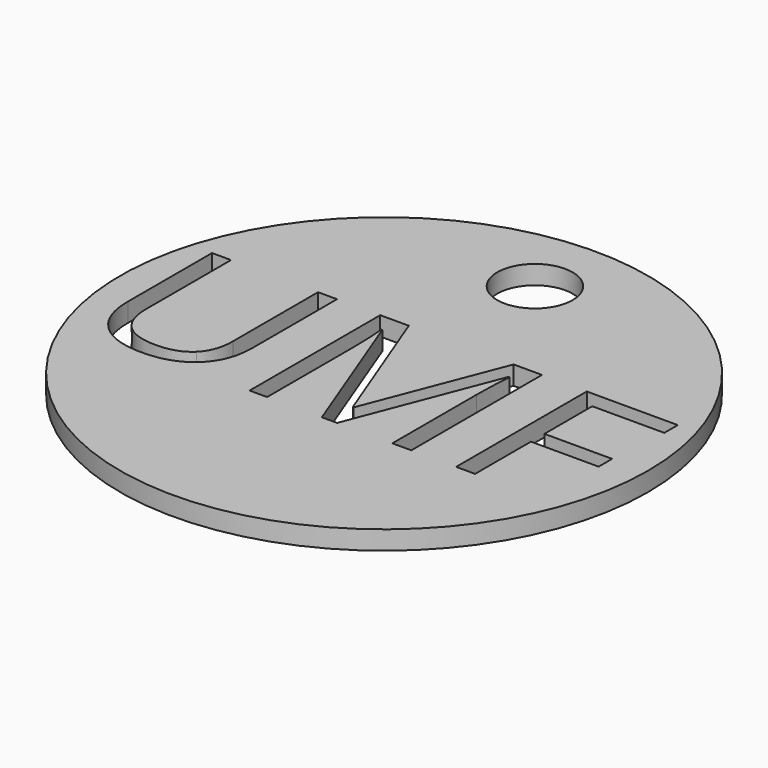
from build123d import *

# Parameters (mm, degrees)
F0_R     = 44.45
F0_R_2   = 6.35
F1_DEPTH = 3.175


with BuildPart() as f1:
    # F0 (on Top) → F1 (new body)
    with BuildSketch(Plane.XY):
        Circle(F0_R)
        with BuildLine():
            Line((-21.2053465663, 12.6017319805), (-18.0090443844, 12.6017319805))
            Line((-18.0090443844, 12.6017319805), (-18.0090443844, -5.1916187724))
            add(Edge.make_bspline(
                [(-18.0090443844, -5.1916187724), (-18.0090443844, -9.8987907239), (-20.8502018794, -12.5894631821)],
                knots=[0, 0, 0, 1, 1, 1], degree=2))
            add(Edge.make_bspline(
                [(-20.8502018794, -12.5894631821), (-23.6913593745, -15.2801356403), (-28.6573655893, -15.2801356403)],
                knots=[0, 0, 0, 1, 1, 1], degree=2))
            add(Edge.make_bspline(
                [(-28.6573655893, -15.2801356403), (-33.6233718042, -15.2801356403), (-36.341131569, -12.568395277)],
                knots=[0, 0, 0, 1, 1, 1], degree=2))
            add(Edge.make_bspline(
                [(-36.341131569, -12.568395277), (-39.0588913339, -9.8566549136), (-39.0588913339, -5.1193859547)],
                knots=[0, 0, 0, 1, 1, 1], degree=2))
            Line((-39.0588913339, -5.1193859547), (-39.0588913339, 12.6017319805))
            Line((-39.0588913339, 12.6017319805), (-35.8565697505, 12.6017319805))
            Line((-35.8565697505, 12.6017319805), (-35.8565697505, -5.3421038092))
            add(Edge.make_bspline(
                [(-35.8565697505, -5.3421038092), (-35.8565697505, -8.7852014515), (-33.9755067903, -10.6301480028)],
                knots=[0, 0, 0, 1, 1, 1], degree=2))
            add(Edge.make_bspline(
                [(-33.9755067903, -10.6301480028), (-32.0944438301, -12.4750945541), (-28.4466865378, -12.4750945541)],
                knots=[0, 0, 0, 1, 1, 1], degree=2))
            add(Edge.make_bspline(
                [(-28.4466865378, -12.4750945541), (-24.9674724866, -12.4750945541), (-23.0864095265, -10.6211189006)],
                knots=[0, 0, 0, 1, 1, 1], degree=2))
            add(Edge.make_bspline(
                [(-23.0864095265, -10.6211189006), (-21.2053465663, -8.7671432471), (-21.2053465663, -5.3059874003)],
                knots=[0, 0, 0, 1, 1, 1], degree=2))
            Line((-21.2053465663, -5.3059874003), (-21.2053465663, 12.6017319805))
        make_face(mode=Mode.SUBTRACT)
        with BuildLine():
            Line((4.0159456036, -14.9009133476), (1.4396417734, -14.9009133476))
            Line((1.4396417734, -14.9009133476), (-7.890430509, 9.4776626162))
            Line((-7.890430509, 9.4776626162), (-8.0409155459, 9.4776626162))
            add(Edge.make_bspline(
                [(-8.0409155459, 9.4776626162), (-7.7760618811, 6.5823305079), (-7.7760618811, 2.5914673316)],
                knots=[0, 0, 0, 1, 1, 1], degree=2))
            Line((-7.7760618811, 2.5914673316), (-7.7760618811, -14.9009133476))
            Line((-7.7760618811, -14.9009133476), (-10.7315880041, -14.9009133476))
            Line((-10.7315880041, -14.9009133476), (-10.7315880041, 12.6017319805))
            Line((-10.7315880041, 12.6017319805), (-5.916066826, 12.6017319805))
            Line((-5.916066826, 12.6017319805), (2.7940071047, -10.0853921695))
            Line((2.7940071047, -10.0853921695), (2.9444921415, -10.0853921695))
            Line((2.9444921415, -10.0853921695), (11.72679889, 12.6017319805))
            Line((11.72679889, 12.6017319805), (16.5062036592, 12.6017319805))
            Line((16.5062036592, 12.6017319805), (16.5062036592, -14.9009133476))
            Line((16.5062036592, -14.9009133476), (13.3099014773, -14.9009133476))
            Line((13.3099014773, -14.9009133476), (13.3099014773, 2.8202045876))
            add(Edge.make_bspline(
                [(13.3099014773, 2.8202045876), (13.3099014773, 5.8660217327), (13.574755142, 9.4415462074)],
                knots=[0, 0, 0, 1, 1, 1], degree=2))
            Line((13.574755142, 9.4415462074), (13.4242701052, 9.4415462074))
            Line((13.4242701052, 9.4415462074), (4.0159456036, -14.9009133476))
        make_face(mode=Mode.SUBTRACT)
        Polygon((27.2448158862, -3.1450222717), (27.2448158862, -14.9009133476), (24.0485137043, -14.9009133476), (24.0485137043, 12.6017319805), (39.3799292548, 12.6017319805), (39.3799292548, 9.7605744854), (27.2448158862, 9.7605744854), (27.2448158862, -0.3038647767), (38.6455622752, -0.3038647767), (38.6455622752, -3.1450222717), align=None, mode=Mode.SUBTRACT)
        with Locations((0, 31.75)):
            Circle(F0_R_2, mode=Mode.SUBTRACT)
    extrude(amount=F1_DEPTH)


solid = f1.part
